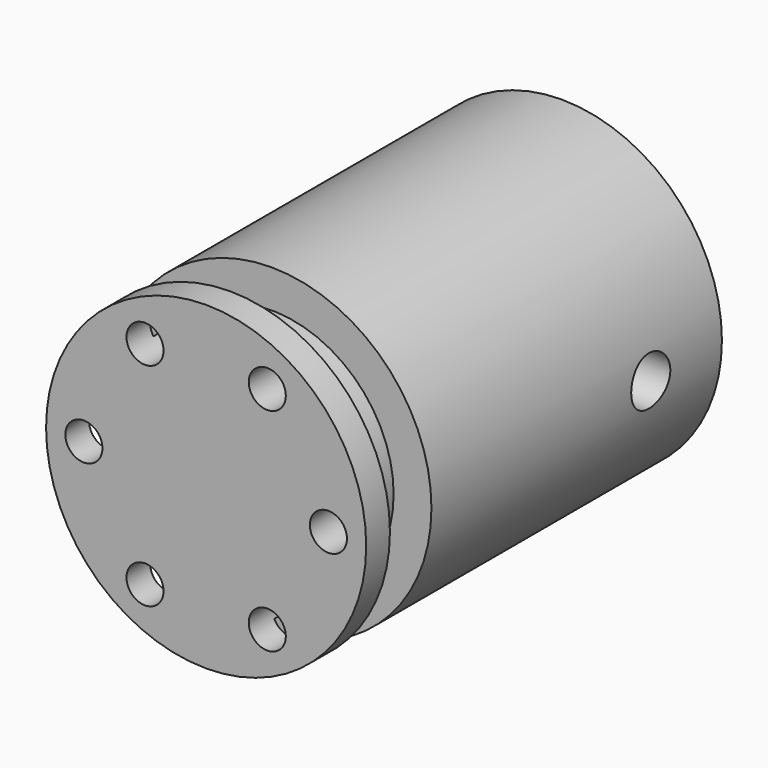
from build123d import *

# Parameters (mm, degrees)
F0_R          = 10.8
F0_R_2        = 5
F1_DEPTH      = 30
F2_DEPTH      = 15
F3_R          = 1.65
F4_DEPTH      = 10.801
F4_DEPTH_BACK = 10.801
F6_R          = 10.8
F6_R_2        = 8.25
F7_DEPTH      = 3.5
F8_R          = 1.25
F9_DEPTH      = 3


with BuildPart() as f1:
    # F0 (on Front) → F1 (new body)
    with BuildSketch(Plane.XZ):
        Circle(F0_R)
        Circle(F0_R_2, mode=Mode.SUBTRACT)
        Circle(F0_R_2)
    extrude(amount=F1_DEPTH)

    # F0 (on Front) → F2 (cut)
    with BuildSketch(Plane.XZ):
        Circle(F0_R_2)
    extrude(amount=F2_DEPTH, mode=Mode.SUBTRACT)

    # F3 (on Right) → F4 (cut, two sides)
    with BuildSketch(Plane.YZ) as f4_sk:
        with Locations((-6, 0)):
            Circle(F3_R)
    extrude(amount=-F4_DEPTH, mode=Mode.SUBTRACT)
    extrude(f4_sk.sketch, amount=F4_DEPTH_BACK, mode=Mode.SUBTRACT)

    # F6 (on offset) → F7 (cut)
    with BuildSketch(Plane.XZ.offset(28)):
        Circle(F6_R)
        Circle(F6_R_2, mode=Mode.SUBTRACT)
    extrude(amount=-F7_DEPTH, mode=Mode.SUBTRACT)

    # F8 (on face) → F9 (cut)
    with BuildSketch(Plane.XZ.offset(30)):
        with Locations((-4.125, 7.1447095812)):
            Circle(F8_R)
        with Locations((4.125, 7.1447095812)):
            Circle(F8_R)
        with Locations((-8.25, 0)):
            Circle(F8_R)
        with Locations((-4.125, -7.1447095812)):
            Circle(F8_R)
        with Locations((4.125, -7.1447095812)):
            Circle(F8_R)
        with Locations((8.25, 0)):
            Circle(F8_R)
    extrude(amount=-F9_DEPTH, mode=Mode.SUBTRACT)


solid = f1.part
